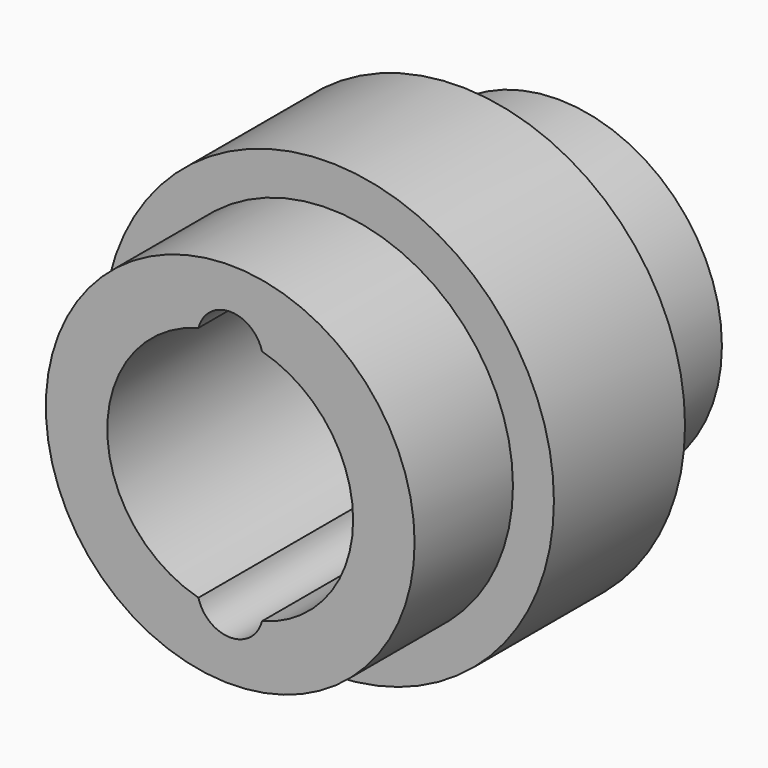
from build123d import *

# Parameters (mm, degrees)
F0_R     = 20
F1_DEPTH = 50
F2_R     = 27.5
F2_R_2   = 20
F3_DEPTH = 35
F4_R     = 29.753541
F4_R_2   = 22.5
F5_DEPTH = 15


with BuildPart() as f1:
    # F0 (on Front) → F1 (new body)
    with BuildSketch(Plane.XZ):
        Circle(F0_R)
        with BuildLine():
            ThreePointArc((3.875362, 14.490741), (11.898118, 9.134264), (15, 0))
            ThreePointArc((15, 0), (11.898118, -9.134264), (3.875362, -14.490741))
            ThreePointArc((3.875362, -14.490741), (0, -17.5), (-3.875362, -14.490741))
            ThreePointArc((-3.875362, -14.490741), (-15, 0), (-3.875362, 14.490741))
            ThreePointArc((-3.875362, 14.490741), (0, 17.5), (3.875362, 14.490741))
        make_face(mode=Mode.SUBTRACT)
    extrude(amount=F1_DEPTH)

    # F2 (on face) → F3 (join)
    with BuildSketch(Plane.XZ.offset(50)):
        Circle(F2_R)
        Circle(F2_R_2, mode=Mode.SUBTRACT)
    extrude(amount=-F3_DEPTH)

    # F4 (on face) → F5 (cut)
    with BuildSketch(Plane.XZ.offset(50)):
        Circle(F4_R)
        Circle(F4_R_2, mode=Mode.SUBTRACT)
    extrude(amount=-F5_DEPTH, mode=Mode.SUBTRACT)


solid = f1.part
